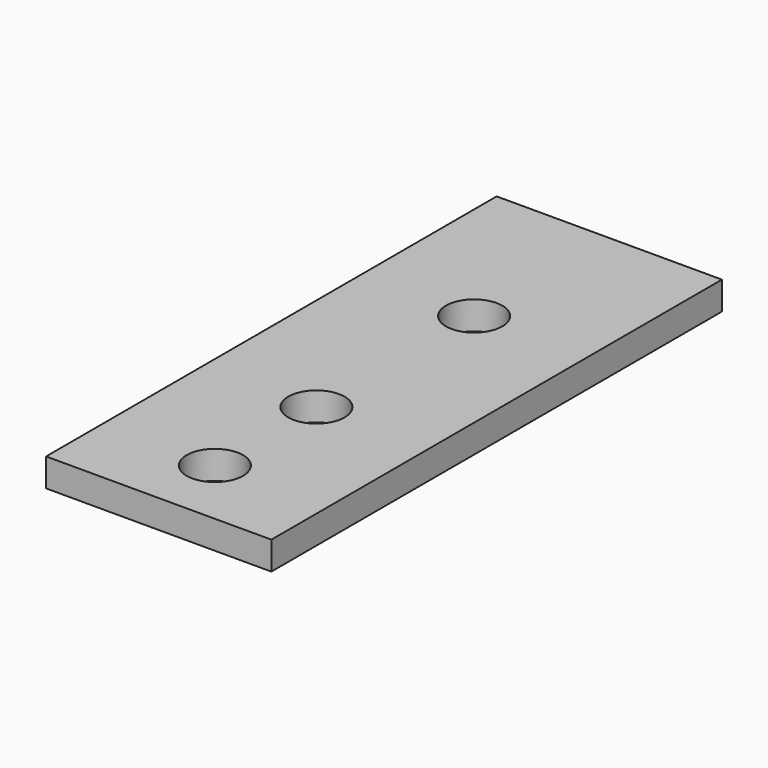
from build123d import *

# Parameters (mm, degrees)
F0_W     = 50.8
F0_H     = 127
F0_R     = 6.35
F1_DEPTH = 6.35


with BuildPart() as f1:
    # F0 (on Top) → F1 (new body)
    with BuildSketch(Plane.XY):
        with Locations((-5.083843, 31.05278)):
            Rectangle(F0_W, F0_H)
        with Locations((-5.118915, -16.57222)):
            Circle(F0_R, mode=Mode.SUBTRACT)
        with Locations((-5.083843, 12.00278)):
            Circle(F0_R, mode=Mode.SUBTRACT)
        with Locations((-5.083843, 56.45278)):
            Circle(F0_R, mode=Mode.SUBTRACT)
    extrude(amount=F1_DEPTH)


solid = f1.part
